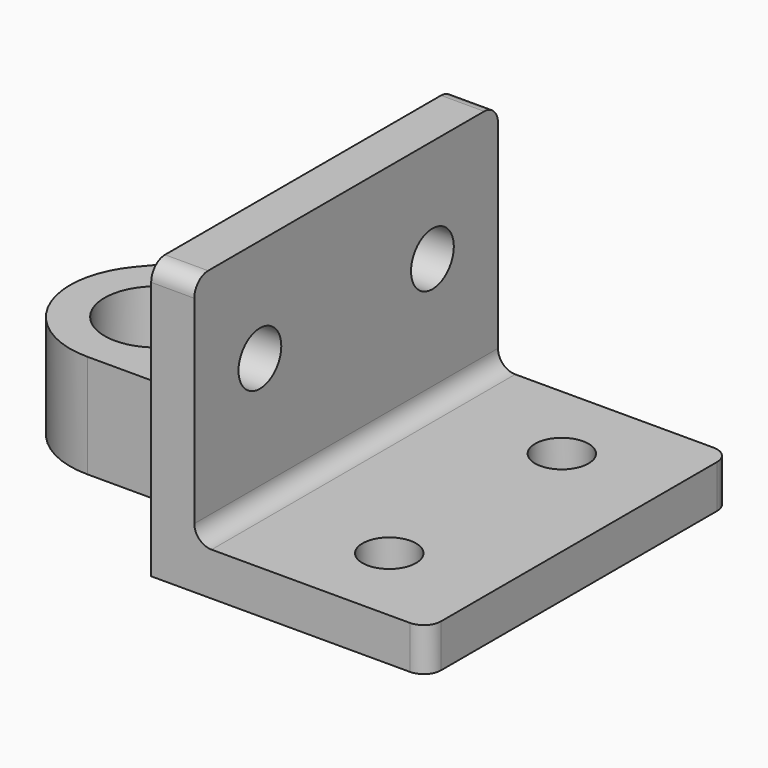
from build123d import *

# Parameters (mm, degrees)
PAD_DEPTH         = 22
SKETCH001_R       = 3.1
POCKET_DEPTH      = 5.001
POCKET_DEPTH_BACK = -27.001
SKETCH002_R       = 3.1
POCKET001_DEPTH   = 5
SKETCH003_R       = 1.6
POCKET002_DEPTH   = 44.001
FILLET_R          = 2
SKETCH004_R       = 1.95
POCKET003_DEPTH   = 8


with BuildPart() as part:
    # Sketch → Pad (new body, symmetric)
    with BuildSketch(Plane.XZ):
        Polygon((0, 27), (0, 0), (27, 0), (27, -5), (-32, -5), (-32, 7), (-5, 7), (-5, 27), align=None)
    extrude(amount=PAD_DEPTH, both=True)

    # Sketch001 → Pocket (cut, two sides)
    with BuildSketch(Plane.XY) as pocket_sk:
        with Locations((15, 12.5)):
            Circle(SKETCH001_R)
        with Locations((15, -12.5)):
            Circle(SKETCH001_R)
        with BuildLine():
            ThreePointArc((-16.803848, -3), (-26.859933, 3.518672), (-17.527864, -4))
            Line((-6, -4), (-17.527864, -4))
            Line((-6, -4), (-6, -10))
            Line((-6, -10), (-22, -10))
            ThreePointArc((-29.660444, 6.427876), (-31.063078, -4.226183), (-22, -10))
            Line((-18.392302, 19.856726), (-29.660444, 6.427876))
            ThreePointArc((-13.796055, 22), (-16.331753, 21.437843), (-18.392302, 19.856726))
            Line((-13.796055, 22), (-13.796055, 28.799225))
            Line((-13.796055, 28.799225), (-40.339119, 28.799225))
            Line((-40.339119, 28.799225), (-40.339119, -28.958258))
            Line((-40.339119, -28.958258), (-5, -28.958258))
            Line((-5, -28.958258), (-5, -3))
            Line((-16.803848, -3), (-5, -3))
        make_face()
    extrude(amount=-POCKET_DEPTH, mode=Mode.SUBTRACT)
    extrude(pocket_sk.sketch, amount=-POCKET_DEPTH_BACK, mode=Mode.SUBTRACT)

    # Sketch002 → Pocket001 (cut)
    with BuildSketch(Plane.YZ):
        with Locations((-12.5, 15)):
            Circle(SKETCH002_R)
        with Locations((12.5, 15)):
            Circle(SKETCH002_R)
    extrude(amount=-POCKET001_DEPTH, mode=Mode.SUBTRACT)

    # Sketch003 (on Face5 of Pocket001) → Pocket002 (cut, through all)
    with BuildSketch(Plane(origin=(0, 22, 0), x_dir=(1, 0, 0), z_dir=(0, 1, 0))):
        with Locations((-11, -1)):
            Circle(SKETCH003_R)
    extrude(amount=-POCKET002_DEPTH, mode=Mode.SUBTRACT)

    # Fillet
    fillet_edges = [part.edges().sort_by_distance(p)[0] for p in [
        (-6, -4, 1),
        (-6, -10, 1),
        (-5, -3, 1),
        (-5, 9.5, 7),
        (27, -22, -2.5),
        (27, 22, -2.5),
        (0, 0, 0),
        (-2.5, -22, 27),
        (-2.5, 22, 27),
    ]]
    fillet(fillet_edges, radius=FILLET_R)

    # Sketch004 (on Face2 of Fillet) → Pocket003 (cut)
    with BuildSketch(Plane(origin=(0, 22, 0), x_dir=(1, 0, 0), z_dir=(0, 1, 0))):
        with Locations((-11, -1)):
            Circle(SKETCH004_R)
    extrude(amount=-POCKET003_DEPTH, mode=Mode.SUBTRACT)


solid = part.part
